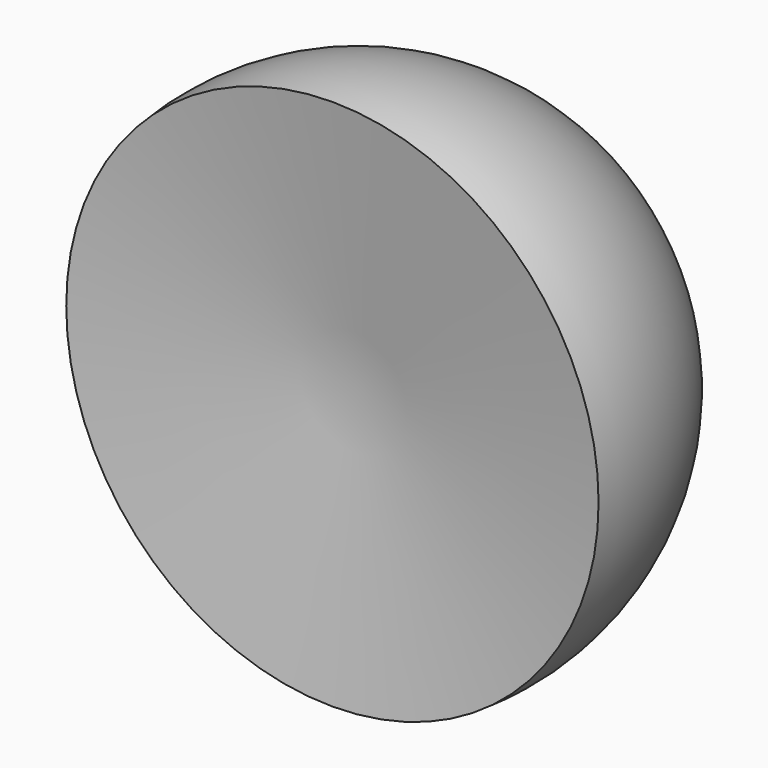
from build123d import *


with BuildPart() as f1:
    # F0 (on Top) → F1 (revolve)
    with BuildSketch(Plane.XY):
        with BuildLine():
            Line((0, 0), (0, 337.5))
            ThreePointArc((0, 337.5), (-252.7725557663, 223.6342662728), (-334.9843261789, -41.1309033992))
            Line((-334.9843261789, -41.1309033992), (0, 0))
        make_face()
    revolve(axis=Axis((0, 168.75, 0), (0, 1, 0)))


solid = f1.part
